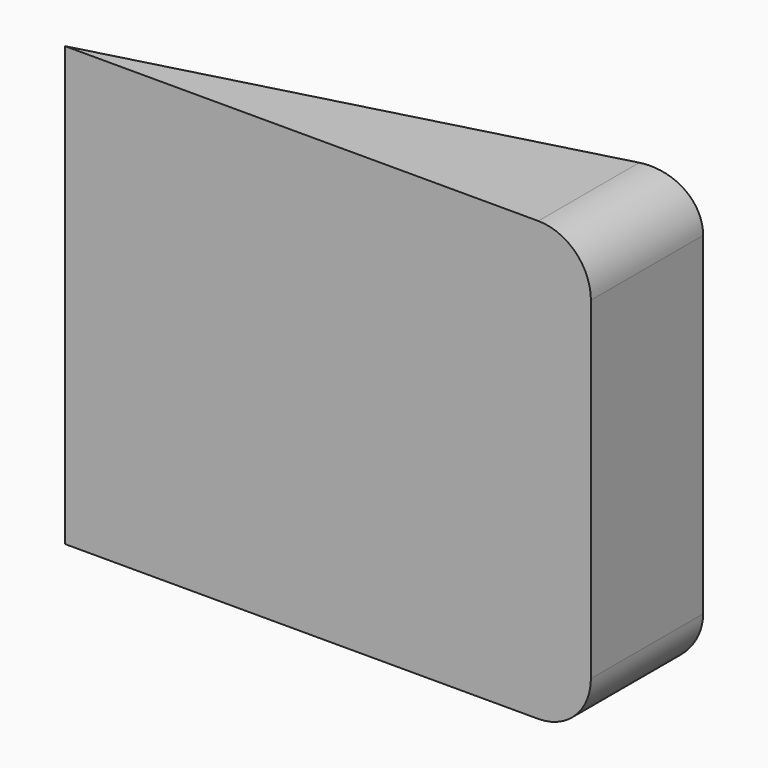
from build123d import *

# Parameters (mm, degrees)
F1_DEPTH = 25
F2_R     = 3


with BuildPart() as f1:
    # F0 (on Top) → F1 (new body)
    with BuildSketch(Plane.XY):
        Polygon((30, 8), (0, 0), (30, 0), align=None)
    extrude(amount=F1_DEPTH)

    # F2
    f2_edges = [f1.edges().sort_by_distance(p)[0] for p in [
        (30, 4, 25),
        (30, 4, 0),
    ]]
    fillet(f2_edges, radius=F2_R)


solid = f1.part
